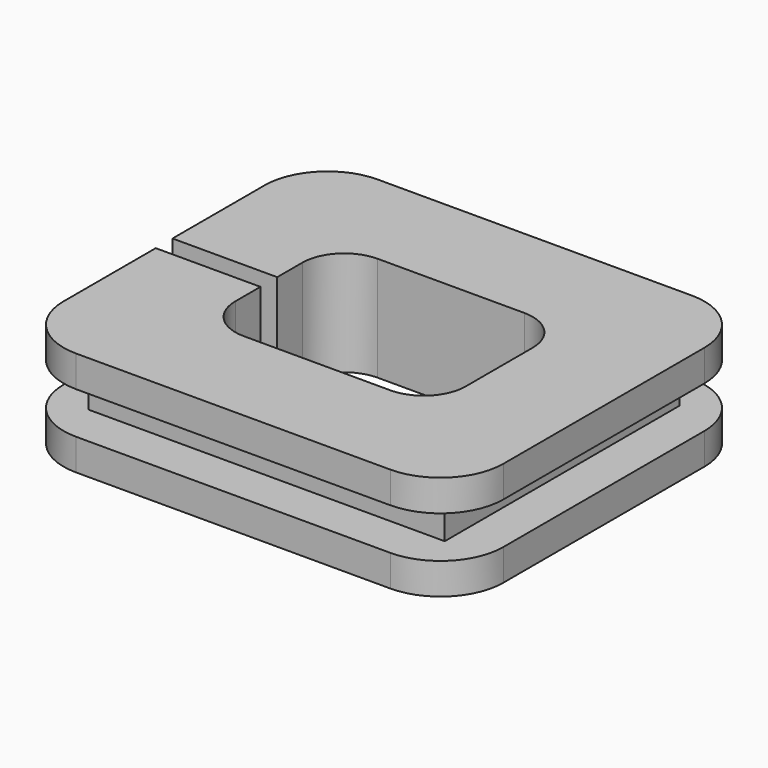
from build123d import *

# Parameters (mm, degrees)
F0_W     = 21
F0_H     = 18
F0_W_2   = 17
F0_H_2   = 14
F1_DEPTH = 2.5
F2_R     = 3
F3_DEPTH = 1
F4_W     = 5
F4_H     = 1
F5_DEPTH = 25
F6_R     = 2


with BuildPart() as f1:
    # F0 (on Top) → F1 (new body, symmetric)
    with BuildSketch(Plane.XY):
        Rectangle(F0_W, F0_H)
        Rectangle(F0_W_2, F0_H_2, mode=Mode.SUBTRACT)
        Rectangle(F0_W_2, F0_H_2)
    extrude(amount=F1_DEPTH, both=True)

    # F2
    f2_edges = [f1.edges().sort_by_distance(p)[0] for p in [
        (10.5, -9, 0),
        (10.5, 9, 0),
        (-10.5, 9, 0),
        (-10.5, -9, 0),
    ]]
    fillet(f2_edges, radius=F2_R)

    # F0 (on Top) → F3 (cut, symmetric)
    with BuildSketch(Plane.XY):
        Rectangle(F0_W, F0_H)
        Rectangle(F0_W_2, F0_H_2, mode=Mode.SUBTRACT)
    extrude(amount=F3_DEPTH, both=True, mode=Mode.SUBTRACT)

    # F4 (on face) → F5 (cut)
    with BuildSketch(Plane.XY.offset(2.5)):
        Polygon((-5.5, -0.5), (-5.5, -4), (5.5, -4), (5.5, 4), (-5.5, 4), (-5.5, 0.5), align=None)
        with Locations((-8, 0)):
            Rectangle(F4_W, F4_H)
    extrude(amount=-F5_DEPTH, mode=Mode.SUBTRACT)

    # F6
    f6_edges = [f1.edges().sort_by_distance(p)[0] for p in [
        (-5.5, -4, 0),
        (5.5, -4, 0),
        (5.5, 4, 0),
        (-5.5, 4, 0),
    ]]
    fillet(f6_edges, radius=F6_R)


solid = f1.part
